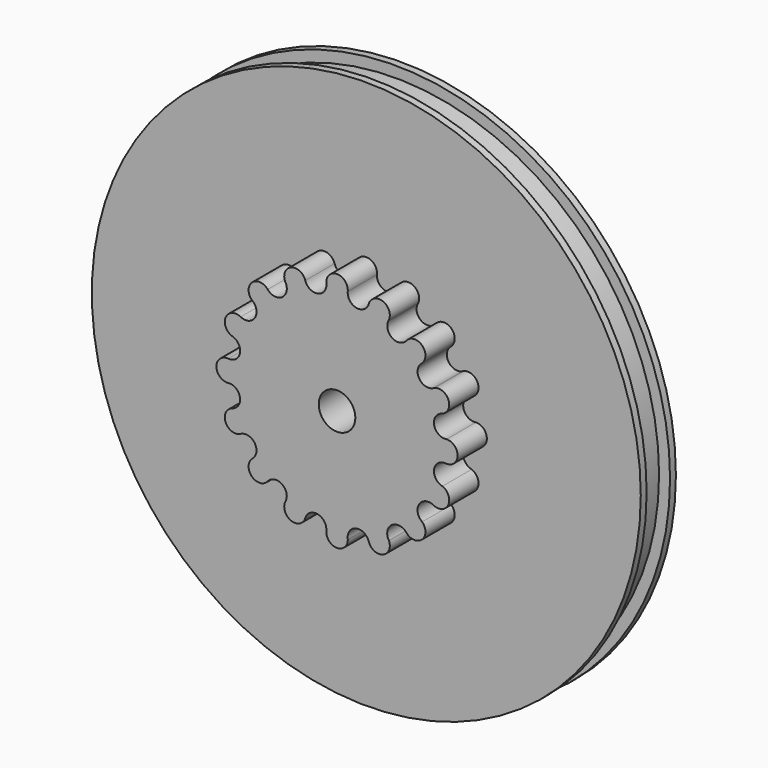
from build123d import *

# Parameters (mm, degrees)
F0_R      = 37.5
F1_DEPTH  = 1
F2_R      = 36
F3_DEPTH  = 4
F4_R      = 37.5
F4_R_2    = 36
F5_DEPTH  = 1
F7_DEPTH  = 6
F8_DEPTH  = 1
F9_R      = 2.5
F10_DEPTH = 20


with BuildPart() as f1:
    # F0 (on Front) → F1 (new body)
    with BuildSketch(Plane.XZ):
        Circle(F0_R)
    extrude(amount=F1_DEPTH)

    # F2 (on face) → F3 (join)
    with BuildSketch(Plane.XZ.offset(1)):
        Circle(F2_R)
    extrude(amount=F3_DEPTH)

    # F4 (on face) → F5 (join)
    with BuildSketch(Plane.XZ.offset(5)):
        Circle(F4_R)
        Circle(F4_R_2, mode=Mode.SUBTRACT)
    extrude(amount=F5_DEPTH)

    # F6 (on face) → F7 (join)
    with BuildSketch(Plane.XZ.offset(5)):
        with BuildLine():
            ThreePointArc((-14.3973607657, 4.3698820625), (-13.2562102609, 2.7015956993), (-14.8554257168, 1.4655075997))
            ThreePointArc((-14.8554257168, 1.4655075997), (-16.4714294815, 0.0592412802), (-14.9737084003, -1.4723868378))
            ThreePointArc((-14.9737084003, -1.4723868378), (-13.2809972538, -2.5769830711), (-14.2854492449, -4.3309728264))
            ThreePointArc((-14.2854492449, -4.3309728264), (-15.2402872256, -6.2486113636), (-13.270444668, -7.0904981892))
            ThreePointArc((-13.270444668, -7.0904981892), (-13.2509857133, -7.078215185), (-13.2313372043, -7.0662377391))
            ThreePointArc((-13.2313372043, -7.0662377391), (-11.2704807141, -7.4819524915), (-11.5406426234, -9.4681019001))
            ThreePointArc((-11.5406426234, -9.4681019001), (-11.5683788085, -9.4914339833), (-11.5955323776, -9.515441602))
            ThreePointArc((-11.5955323776, -9.515441602), (-11.6640462748, -11.6315042777), (-9.5468760318, -11.6291454669))
            ThreePointArc((-9.5468760318, -11.6291454669), (-9.5335988041, -11.6103508311), (-9.5200295189, -11.5917659551))
            ThreePointArc((-9.5200295189, -11.5917659551), (-7.5493471931, -11.2254490142), (-7.0388777787, -13.163798288))
            ThreePointArc((-7.0388777787, -13.163798288), (-6.3580749762, -15.1949459127), (-4.3698820625, -14.3973607657))
            ThreePointArc((-4.3698820625, -14.3973607657), (-2.7015956993, -13.2562102609), (-1.4655075997, -14.8554257168))
            ThreePointArc((-1.4655075997, -14.8554257168), (-0.0592412802, -16.4714294815), (1.4723868378, -14.9737084003))
            ThreePointArc((1.4723868378, -14.9737084003), (2.5769830711, -13.2809972538), (4.3309728264, -14.2854492449))
            ThreePointArc((4.3309728264, -14.2854492449), (6.2486113636, -15.2402872256), (7.0904981892, -13.270444668))
            ThreePointArc((7.0904981892, -13.270444668), (7.4632395293, -11.2838728073), (9.4681019001, -11.5406426234))
            ThreePointArc((9.4681019001, -11.5406426234), (11.6051695712, -11.6889493932), (11.6291454669, -9.5468760318))
            ThreePointArc((11.6291454669, -9.5468760318), (11.2132854236, -7.5688810145), (13.163798288, -7.0388777787))
            ThreePointArc((13.163798288, -7.0388777787), (15.1949459127, -6.3580749762), (14.3973607657, -4.3698820625))
            ThreePointArc((14.3973607657, -4.3698820625), (13.2562102609, -2.7015956993), (14.8554257168, -1.4655075997))
            ThreePointArc((14.8554257168, -1.4655075997), (16.4714294815, -0.0592412802), (14.9737084003, 1.4723868378))
            ThreePointArc((14.9737084003, 1.4723868378), (13.2809972538, 2.5769830711), (14.2854492449, 4.3309728264))
            ThreePointArc((14.2854492449, 4.3309728264), (15.2402872256, 6.2486113636), (13.270444668, 7.0904981892))
            ThreePointArc((13.270444668, 7.0904981892), (11.2838728073, 7.4632395293), (11.5406426234, 9.4681019001))
            ThreePointArc((11.5406426234, 9.4681019001), (11.6889493932, 11.6051695712), (9.5468760318, 11.6291454669))
            ThreePointArc((9.5468760318, 11.6291454669), (7.5688810145, 11.2132854236), (7.0388777787, 13.163798288))
            ThreePointArc((7.0388777787, 13.163798288), (6.3580749762, 15.1949459127), (4.3698820625, 14.3973607657))
            ThreePointArc((4.3698820625, 14.3973607657), (2.7015956993, 13.2562102609), (1.4655075997, 14.8554257168))
            ThreePointArc((1.4655075997, 14.8554257168), (0.0592412802, 16.4714294815), (-1.4723868378, 14.9737084003))
            ThreePointArc((-1.4723868378, 14.9737084003), (-2.5769830711, 13.2809972538), (-4.3309728264, 14.2854492449))
            ThreePointArc((-4.3309728264, 14.2854492449), (-6.2486113636, 15.2402872256), (-7.0904981892, 13.270444668))
            ThreePointArc((-7.0904981892, 13.270444668), (-7.4632395293, 11.2838728073), (-9.4681019001, 11.5406426234))
            ThreePointArc((-9.4681019001, 11.5406426234), (-11.6051695712, 11.6889493932), (-11.6291454669, 9.5468760318))
            ThreePointArc((-11.6291454669, 9.5468760318), (-11.2132854236, 7.5688810145), (-13.163798288, 7.0388777787))
            ThreePointArc((-13.163798288, 7.0388777787), (-15.1949459127, 6.3580749762), (-14.3973607657, 4.3698820625))
        make_face()
    extrude(amount=F7_DEPTH)

    # F8 (add): a face of the model
    f8_faces = [f1.faces().sort_by_distance(p)[0] for p in [
        (-34.9817662351, -5, 0),
    ]]
    extrude(f8_faces, amount=F8_DEPTH)

    # F9 (on face) → F10 (cut)
    with BuildSketch(Plane.XZ.offset(11)):
        Circle(F9_R)
    extrude(amount=-F10_DEPTH, mode=Mode.SUBTRACT)


solid = f1.part
